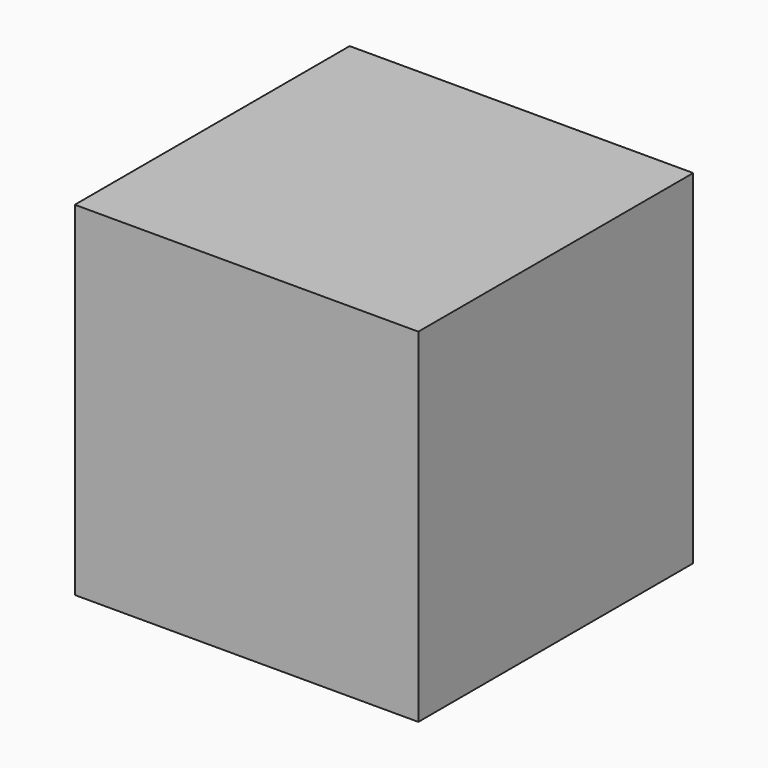
from build123d import *

# Parameters (mm, degrees)
F0_W     = 50.8
F0_H     = 50.8
F1_DEPTH = 50.8
F2_T     = -2.54
F3_W     = 45.72
F3_H     = 45.72
F4_DEPTH = 48.26


with BuildPart() as f1:
    # F0 (on Front) → F1 (new body)
    with BuildSketch(Plane.XZ):
        Rectangle(F0_W, F0_H)
    extrude(amount=F1_DEPTH)

    # F2
    f2_openings = [f1.faces().sort_by_distance(p)[0] for p in [
        (0, 0, 0),
    ]]
    offset(amount=F2_T, openings=f2_openings)


with BuildPart() as f4:
    # F3 (on Front) → F4 (new body, through all)
    with BuildSketch(Plane.XZ):
        Rectangle(F3_W, F3_H)
    extrude(amount=F4_DEPTH)


solid = Compound([f1.part, f4.part])
